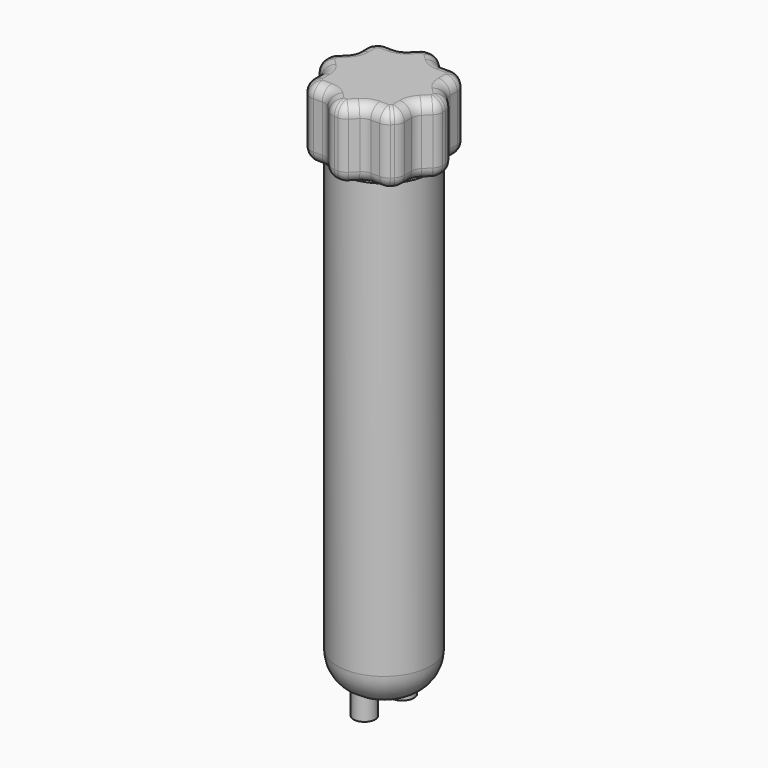
from build123d import *

# Parameters (mm, degrees)
F0_R     = 20
F1_DEPTH = 200
F2_R     = 20
F3_DEPTH = 30
F4_R     = 5
F5_R     = 5
F6_R     = 14.4852813742
F7_R     = 4.6063226889
F7_R_2   = 5.0097093103
F8_DEPTH = 6.4


with BuildPart() as f1:
    # F0 (on Top) → F1 (new body)
    with BuildSketch(Plane.XY):
        Circle(F0_R)
    extrude(amount=F1_DEPTH)

    # F6
    f6_edges = [f1.edges().sort_by_distance(p)[0] for p in [
        (-20, 0, 0),
    ]]
    fillet(f6_edges, radius=F6_R)

    # F7 (on face) → F8 (join, symmetric)
    with BuildSketch(Plane(origin=(0, 0, 0), x_dir=(1, 0, 0), z_dir=(0, 0, -1))):
        with Locations((0, 10.4696536437)):
            Circle(F7_R)
        with Locations((0, -9.741329588)):
            Circle(F7_R_2)
    extrude(amount=F8_DEPTH, both=True)


with BuildPart() as f3:
    # F2 (on face) → F3 (new body)
    with BuildSketch(Plane.XY.offset(200)):
        with BuildLine():
            ThreePointArc((-20, -16.030980181), (-18.1244631033, -18.1244631033), (-16.030980181, -20))
            Line((-16.030980181, -20), (-8.2842712475, -20))
            Line((-8.2842712475, -20), (-2.8065208287, -25.4777504188))
            ThreePointArc((-2.8065208287, -25.4777504188), (0, -25.6318615314), (2.8065208287, -25.4777504188))
            Line((2.8065208287, -25.4777504188), (8.2842712475, -20))
            Line((8.2842712475, -20), (16.030980181, -20))
            ThreePointArc((16.030980181, -20), (18.1244631033, -18.1244631033), (20, -16.030980181))
            Line((20, -16.030980181), (20, -8.2842712475))
            Line((20, -8.2842712475), (25.4777504188, -2.8065208287))
            ThreePointArc((25.4777504188, -2.8065208287), (25.6318615314, 0), (25.4777504188, 2.8065208287))
            Line((25.4777504188, 2.8065208287), (20, 8.2842712475))
            Line((20, 8.2842712475), (20, 16.030980181))
            ThreePointArc((20, 16.030980181), (18.1244631033, 18.1244631033), (16.030980181, 20))
            Line((16.030980181, 20), (8.2842712475, 20))
            Line((8.2842712475, 20), (2.8065208287, 25.4777504188))
            ThreePointArc((2.8065208287, 25.4777504188), (0, 25.6318615314), (-2.8065208287, 25.4777504188))
            Line((-2.8065208287, 25.4777504188), (-8.2842712475, 20))
            Line((-8.2842712475, 20), (-16.030980181, 20))
            ThreePointArc((-16.030980181, 20), (-18.1244631033, 18.1244631033), (-20, 16.030980181))
            Line((-20, 16.030980181), (-20, 8.2842712475))
            Line((-20, 8.2842712475), (-25.4777504188, 2.8065208287))
            ThreePointArc((-25.4777504188, 2.8065208287), (-25.6318615314, 0), (-25.4777504188, -2.8065208287))
            Line((-25.4777504188, -2.8065208287), (-20, -8.2842712475))
            Line((-20, -8.2842712475), (-20, -16.030980181))
        make_face()
        Circle(F2_R, mode=Mode.SUBTRACT)
        Circle(F2_R)
    extrude(amount=F3_DEPTH)

    # F4
    f4_edges = [f3.edges().sort_by_distance(p)[0] for p in [
        (2.806521, 25.47775, 215),
        (-2.806521, 25.47775, 215),
        (-16.03098, 20, 215),
        (8.284271, 20, 215),
        (16.03098, 20, 215),
        (20, 16.03098, 215),
        (20, 8.284271, 215),
        (-8.284271, 20, 215),
        (25.47775, 2.806521, 215),
        (25.47775, -2.806521, 215),
        (20, -8.284271, 215),
        (20, -16.03098, 215),
        (16.03098, -20, 215),
        (8.284271, -20, 215),
        (2.806521, -25.47775, 215),
        (-2.806521, -25.47775, 215),
        (-16.03098, -20, 215),
        (-8.284271, -20, 215),
        (-20, -16.03098, 215),
        (-20, -8.284271, 215),
        (-25.47775, -2.806521, 215),
        (-25.47775, 2.806521, 215),
        (-20, 8.284271, 215),
        (-20, 16.03098, 215),
    ]]
    fillet(f4_edges, radius=F4_R)

    # F5
    f5_edges = [f3.edges().sort_by_distance(p)[0] for p in [
        (-25.631862, 0, 200),
        (-25.215005, 2.569026, 200),
        (-25.215005, -2.569026, 200),
        (-22.811715, 5.472556, 200),
        (-22.811715, -5.472556, 200),
        (-20.380602, 8.441922, 200),
        (-20.380602, -8.441922, 200),
        (-20, 12.260637, 200),
        (-20, -12.260637, 200),
        (-19.646277, 16.013126, 200),
        (-19.646277, -16.013126, 200),
        (-18.124463, 18.124463, 200),
        (-18.124463, -18.124463, 200),
        (-16.013126, 19.646277, 200),
        (-16.013126, -19.646277, 200),
        (-12.260637, 20, 200),
        (-12.260637, -20, 200),
        (-8.441922, 20.380602, 200),
        (-8.441922, -20.380602, 200),
        (-5.472556, 22.811715, 200),
        (-5.472556, -22.811715, 200),
        (-2.569026, 25.215005, 200),
        (-2.569026, -25.215005, 200),
        (0, 25.631862, 200),
        (0, -25.631862, 200),
        (2.569026, 25.215005, 200),
        (2.569026, -25.215005, 200),
        (5.472556, 22.811715, 200),
        (5.472556, -22.811715, 200),
        (8.441922, 20.380602, 200),
        (8.441922, -20.380602, 200),
        (12.260637, 20, 200),
        (12.260637, -20, 200),
        (16.013126, 19.646277, 200),
        (16.013126, -19.646277, 200),
        (18.124463, 18.124463, 200),
        (18.124463, -18.124463, 200),
        (19.646277, 16.013126, 200),
        (19.646277, -16.013126, 200),
        (20, 12.260637, 200),
        (20, -12.260637, 200),
        (20.380602, 8.441922, 200),
        (20.380602, -8.441922, 200),
        (22.811715, 5.472556, 200),
        (22.811715, -5.472556, 200),
        (25.215005, 2.569026, 200),
        (25.215005, -2.569026, 200),
        (25.631862, 0, 200),
        (-25.631862, 0, 230),
        (-25.215005, 2.569026, 230),
        (-25.215005, -2.569026, 230),
        (-22.811715, 5.472556, 230),
        (-22.811715, -5.472556, 230),
        (-20.380602, 8.441922, 230),
        (-20.380602, -8.441922, 230),
        (-20, 12.260637, 230),
        (-20, -12.260637, 230),
        (-19.646277, 16.013126, 230),
        (-19.646277, -16.013126, 230),
        (-18.124463, 18.124463, 230),
        (-18.124463, -18.124463, 230),
        (-16.013126, 19.646277, 230),
        (-16.013126, -19.646277, 230),
        (-12.260637, 20, 230),
        (-12.260637, -20, 230),
        (-8.441922, 20.380602, 230),
        (-8.441922, -20.380602, 230),
        (-5.472556, 22.811715, 230),
        (-5.472556, -22.811715, 230),
        (-2.569026, 25.215005, 230),
        (-2.569026, -25.215005, 230),
        (0, 25.631862, 230),
        (0, -25.631862, 230),
        (2.569026, 25.215005, 230),
        (2.569026, -25.215005, 230),
        (5.472556, 22.811715, 230),
        (5.472556, -22.811715, 230),
        (8.441922, 20.380602, 230),
        (8.441922, -20.380602, 230),
        (12.260637, 20, 230),
        (12.260637, -20, 230),
        (16.013126, 19.646277, 230),
        (16.013126, -19.646277, 230),
        (18.124463, 18.124463, 230),
        (18.124463, -18.124463, 230),
        (19.646277, 16.013126, 230),
        (19.646277, -16.013126, 230),
        (20, 12.260637, 230),
        (20, -12.260637, 230),
        (20.380602, 8.441922, 230),
        (20.380602, -8.441922, 230),
        (22.811715, 5.472556, 230),
        (22.811715, -5.472556, 230),
        (25.215005, 2.569026, 230),
        (25.215005, -2.569026, 230),
        (25.631862, 0, 230),
    ]]
    fillet(f5_edges, radius=F5_R)


solid = Compound([f1.part, f3.part])
